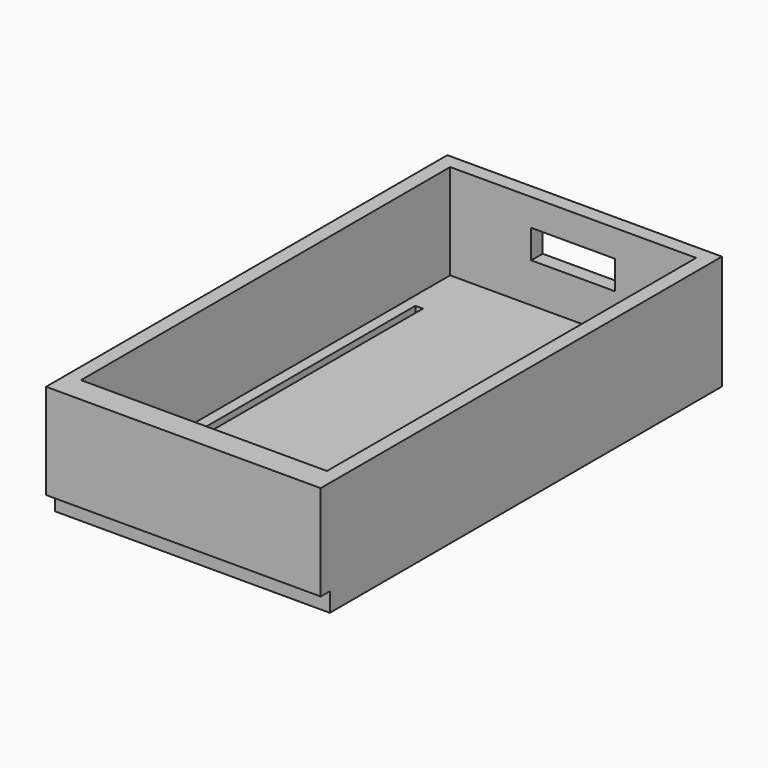
from build123d import *

# Parameters (mm, degrees)
F0_W     = 0.8
F0_H     = 36.4
F0_W_2   = 8.8
F0_H_2   = 1.5
F1_DEPTH = 2
F2_DEPTH = 10
F3_DEPTH = 4.15
F0_H_3   = 3.6
F4_DEPTH = 2
F5_W     = 1.5
F5_H     = 2.85
F6_DEPTH = 8.8
F0_W_3   = 28.8
F0_H_4   = 1.2
F7_DEPTH = 10


with BuildPart() as f1:
    # F0 (on Top) → F1 (new body)
    with BuildSketch(Plane.XY):
        Polygon((-15.506923, -17.20208), (-15.506923, 31.19792), (-7.006923, 31.19792), (-7.006923, 32.69792), (-17.006923, 32.69792), (-17.006923, -18.70208), (11.793077, -18.70208), (11.793077, 32.69792), (1.793077, 32.69792), (1.793077, 31.19792), (10.293077, 31.19792), (10.293077, -17.20208), align=None)
        Polygon((-7.006923, 31.19792), (-15.506923, 31.19792), (-15.506923, -17.20208), (10.293077, -17.20208), (10.293077, 31.19792), (1.793077, 31.19792), align=None)
        with Locations((-13.956923, 6.99792)):
            Rectangle(F0_W, F0_H, mode=Mode.SUBTRACT)
        Polygon((8.343077, -11.20208), (8.343077, 21.59792), (7.483077, 21.59792), (7.483077, 26.77792), (8.743077, 26.77792), (10.003077, 26.77792), (10.003077, 21.59792), (9.143077, 21.59792), (9.143077, -11.20208), align=None, mode=Mode.SUBTRACT)
        with Locations((-2.606923, 31.94792)):
            Rectangle(F0_W_2, F0_H_2)
    extrude(amount=-F1_DEPTH)

    # F0 (on Top) → F2 (join)
    with BuildSketch(Plane.XY):
        Polygon((-15.506923, -17.20208), (-15.506923, 31.19792), (-7.006923, 31.19792), (-7.006923, 32.69792), (-17.006923, 32.69792), (-17.006923, -18.70208), (11.793077, -18.70208), (11.793077, 32.69792), (1.793077, 32.69792), (1.793077, 31.19792), (10.293077, 31.19792), (10.293077, -17.20208), align=None)
    extrude(amount=F2_DEPTH)

    # F0 (on Top) → F3 (join)
    with BuildSketch(Plane.XY):
        with Locations((-2.606923, 31.94792)):
            Rectangle(F0_W_2, F0_H_2)
    extrude(amount=F3_DEPTH)

    # F0 (on Top) → F4 (cut)
    with BuildSketch(Plane.XY):
        with Locations((-13.956923, 6.99792)):
            Rectangle(F0_W, F0_H)
        with Locations((8.743077, 23.39792)):
            Rectangle(F0_W, F0_H_3)
    extrude(amount=-F4_DEPTH, mode=Mode.SUBTRACT)

    # F5 (on face) → F6 (join)
    with BuildSketch(Plane.YZ.offset(-7.006923)):
        with Locations((31.94792, 8.575)):
            Rectangle(F5_W, F5_H)
    extrude(amount=F6_DEPTH)

    # F0 (on Top) → F7 (join)
    with BuildSketch(Plane.XY):
        with Locations((-2.606923, -19.30208)):
            Rectangle(F0_W_3, F0_H_4)
    extrude(amount=F7_DEPTH)


solid = f1.part
